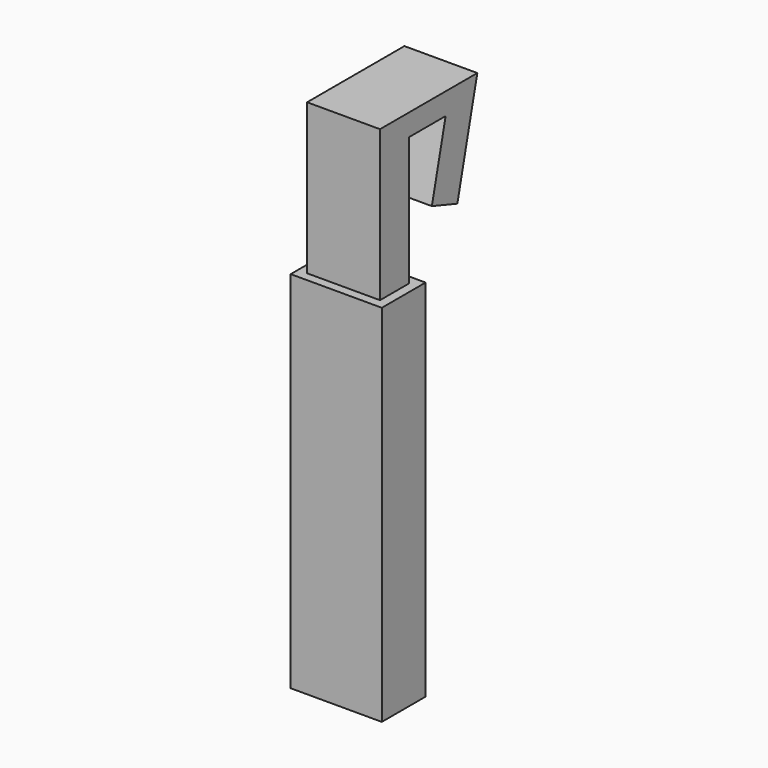
from build123d import *

# Parameters (mm, degrees)
F1_DEPTH = 8
F2_W     = 10
F2_H     = 6
F2_W_2   = 8
F2_H_2   = 4
F3_DEPTH = 20


with BuildPart() as f1:
    # F0 (on Right) → F1 (new body)
    with BuildSketch(Plane.YZ):
        Polygon((-32.631335, -11.481153), (-32.631335, 22.648999), (-27.627911, 22.648999), (-29.517183, 14.711965), (-26.023025, 13.529498), (-23.283836, 25.037128), (-36.631335, 25.037128), (-36.631335, -11.481153), align=None)
    extrude(amount=F1_DEPTH)


with BuildPart() as f3:
    # F2 (on face) → F3 (new body, symmetric)
    with BuildSketch(Plane(origin=(0, 0, -11.481153), x_dir=(1, 0, 0), z_dir=(0, 0, -1))):
        with Locations((4, 34.631335)):
            Rectangle(F2_W, F2_H)
        with Locations((4, 34.631335)):
            Rectangle(F2_W_2, F2_H_2, mode=Mode.SUBTRACT)
    extrude(amount=F3_DEPTH, both=True)


solid = Compound([f1.part, f3.part])
